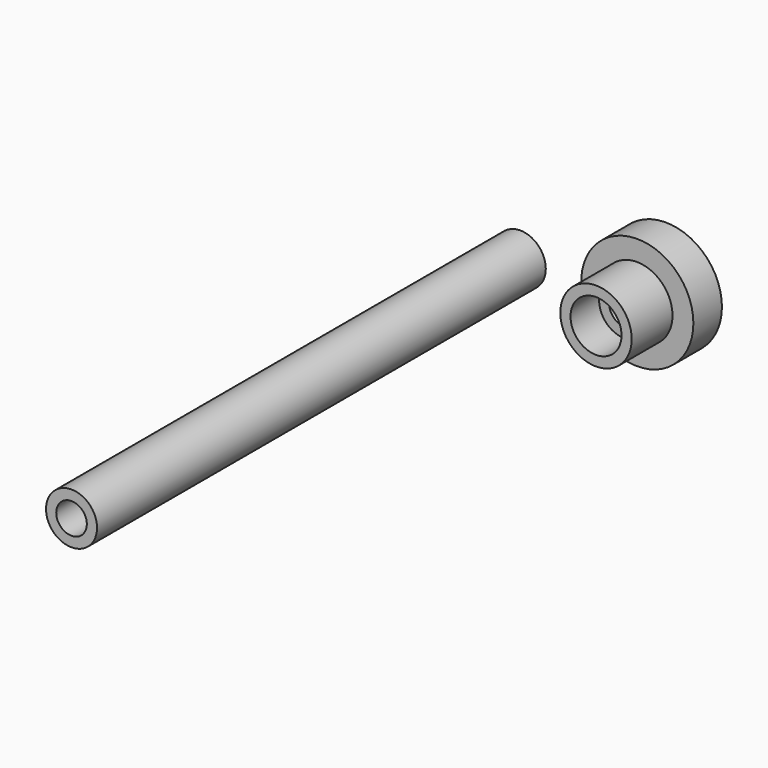
from build123d import *

# Parameters (mm, degrees)
F0_R           = 5
F1_DEPTH       = 110
F3_D           = 6
F3_DEPTH       = 30
F3_TIP         = 1.8025818571
F4_R           = 7
F5_DEPTH       = 10
F7_D           = 6
F7_DEPTH       = 10
F7_CBORE_D     = 10
F7_CBORE_DEPTH = 7
F7_TIP         = 1.8025818571
F8_R           = 7
F8_R_2         = 5
F9_DEPTH       = 8
F10_R          = 11
F11_DEPTH      = 7
F12_DEPTH      = 7


with BuildPart() as f1:
    # F0 (on Front) → F1 (new body)
    with BuildSketch(Plane.XZ):
        Circle(F0_R)
    extrude(amount=F1_DEPTH)

    # F3
    with Locations(Plane.XZ.offset(110)):
        with Locations((0, 0)):
            Hole(F3_D / 2, depth=F3_DEPTH)
            with Locations((0, 0, -(F3_DEPTH + F3_TIP / 2))):  # 118° drill point
                Cone(0, F3_D / 2, F3_TIP, mode=Mode.SUBTRACT)


with BuildPart() as f5:
    # F4 (on Front) → F5 (new body)
    with BuildSketch(Plane.XZ):
        with Locations((22.8477474302, 0)):
            Circle(F4_R)
    extrude(amount=F5_DEPTH)

    # F7
    with Locations(Plane.XZ.offset(10)):
        with Locations((22.8477474302, 0)):
            CounterBoreHole(F7_D / 2, F7_CBORE_D / 2, F7_CBORE_DEPTH, depth=F7_DEPTH)
            with Locations((0, 0, -(F7_DEPTH + F7_TIP / 2))):  # 118° drill point
                Cone(0, F7_D / 2, F7_TIP, mode=Mode.SUBTRACT)

    # F8 (on face) → F9 (join)
    with BuildSketch(Plane(origin=(0, 0, 0), x_dir=(-1, 0, 0), z_dir=(0, 1, 0))):
        with Locations((-22.8477474302, 0)):
            Circle(F8_R)
        with Locations((-22.8477474302, 0)):
            Circle(F8_R_2, mode=Mode.SUBTRACT)
    extrude(amount=F9_DEPTH)

    # F10 (on Front) → F11 (join)
    with BuildSketch(Plane.XZ):
        with Locations((22.9375008494, 0)):
            Circle(F10_R)
    extrude(amount=-F11_DEPTH)

    # F12 (cut): a face of the model
    f12_faces = [f5.faces().sort_by_distance(p)[0] for p in [
        (22.8477474302, 7, 0),
    ]]
    extrude(f12_faces, amount=-F12_DEPTH, mode=Mode.SUBTRACT)


solid = Compound([f1.part, f5.part])
